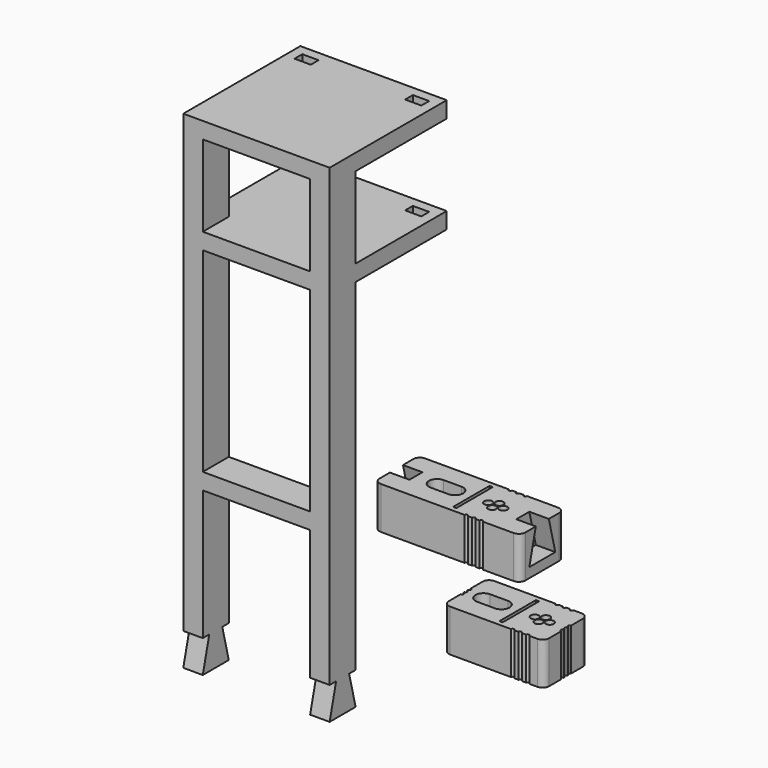
from build123d import *

# Parameters (mm, degrees)
F0_W      = 1
F0_H      = 14
F0_R      = 1.25
F1_DEPTH  = 13
F2_R      = 1.25
F2_W      = 1
F2_H      = 14
F3_DEPTH  = 13
F5_DEPTH  = 6
F7_DEPTH  = 6
F8_W      = 45
F8_H      = 10
F9_DEPTH  = 150
F11_DEPTH = 74.5548050561
F12_W     = 33
F12_H     = 50
F12_H_2   = 60
F12_H_3   = 25
F13_DEPTH = 101.7980283996
F14_W     = 45
F14_H     = 5
F15_DEPTH = 35
F16_W     = 5
F16_H     = 3
F17_DEPTH = 35


with BuildPart() as f1:
    # F0 (on Top) → F1 (new body)
    with BuildSketch(Plane.XY):
        with BuildLine():
            Line((19.8539771741, 9.7557189554), (1.1039771741, 9.7557189554))
            ThreePointArc((1.1039771741, 9.7557189554), (-0.3102363882, 9.1699325178), (-0.8960228259, 7.7557189554))
            Line((-0.8960228259, 7.7557189554), (-0.8960228259, 3.1557189554))
            ThreePointArc((-0.8960228259, 3.1557189554), (-0.3960228259, 2.6557189554), (-0.8960228259, 2.1557189554))
            Line((-0.8960228259, 2.1557189554), (-0.8960228259, 1.7557189554))
            ThreePointArc((-0.8960228259, 1.7557189554), (-0.3960228259, 1.2557189554), (-0.8960228259, 0.7557189554))
            Line((-0.8960228259, 0.7557189554), (-0.8960228259, 0.3557189554))
            ThreePointArc((-0.8960228259, 0.3557189554), (-0.3960228259, -0.1442810446), (-0.8960228259, -0.6442810446))
            Line((-0.8960228259, -0.6442810446), (-0.8960228259, -5.2442810446))
            ThreePointArc((-0.8960228259, -5.2442810446), (-0.3102363882, -6.658494607), (1.1039771741, -7.2442810446))
            Line((1.1039771741, -7.2442810446), (19.8539771741, -7.2442810446))
            ThreePointArc((19.8539771741, -7.2442810446), (20.3539771741, -6.7442810446), (20.8539771741, -7.2442810446))
            Line((20.8539771741, -7.2442810446), (22.1539771741, -7.2442810446))
            ThreePointArc((22.1539771741, -7.2442810446), (22.6539771741, -6.7442810446), (23.1539771741, -7.2442810446))
            Line((23.1539771741, -7.2442810446), (24.4539771741, -7.2442810446))
            ThreePointArc((24.4539771741, -7.2442810446), (24.9539771741, -6.7442810446), (25.4539771741, -7.2442810446))
            Line((25.4539771741, -7.2442810446), (27.9539771741, -7.2442810446))
            ThreePointArc((27.9539771741, -7.2442810446), (29.3681907365, -6.658494607), (29.9539771741, -5.2442810446))
            Line((29.9539771741, -5.2442810446), (29.9539771741, -0.6442810446))
            ThreePointArc((29.9539771741, -0.6442810446), (29.4539771741, -0.1442810446), (29.9539771741, 0.3557189554))
            Line((29.9539771741, 0.3557189554), (29.9539771741, 0.7557189554))
            ThreePointArc((29.9539771741, 0.7557189554), (29.4539771741, 1.2557189554), (29.9539771741, 1.7557189554))
            Line((29.9539771741, 1.7557189554), (29.9539771741, 2.1557189554))
            ThreePointArc((29.9539771741, 2.1557189554), (29.4539771741, 2.6557189554), (29.9539771741, 3.1557189554))
            Line((29.9539771741, 3.1557189554), (29.9539771741, 7.7557189554))
            ThreePointArc((29.9539771741, 7.7557189554), (29.3681907365, 9.1699325178), (27.9539771741, 9.7557189554))
            Line((27.9539771741, 9.7557189554), (25.4539771741, 9.7557189554))
            ThreePointArc((25.4539771741, 9.7557189554), (24.9539771741, 9.2557189554), (24.4539771741, 9.7557189554))
            Line((24.4539771741, 9.7557189554), (23.1539771741, 9.7557189554))
            ThreePointArc((23.1539771741, 9.7557189554), (22.6539771741, 9.2557189554), (22.1539771741, 9.7557189554))
            Line((22.1539771741, 9.7557189554), (20.8539771741, 9.7557189554))
            ThreePointArc((20.8539771741, 9.7557189554), (20.3539771741, 9.2557189554), (19.8539771741, 9.7557189554))
        make_face()
        with Locations((15.6039771741, 1.2557189554)):
            Rectangle(F0_W, F0_H, mode=Mode.SUBTRACT)
        with Locations((20.3539771741, 1.2557189554)):
            Circle(F0_R, mode=Mode.SUBTRACT)
        with Locations((22.6539771741, -0.1442810446)):
            Circle(F0_R, mode=Mode.SUBTRACT)
        with Locations((24.9539771741, 1.2557189554)):
            Circle(F0_R, mode=Mode.SUBTRACT)
        with BuildLine():
            ThreePointArc((10.1039771741, 3.7557189554), (12.6039771741, 1.2557189554), (10.1039771741, -1.2442810446))
            Line((10.1039771741, -1.2442810446), (4.6039771741, -1.2442810446))
            ThreePointArc((4.6039771741, -1.2442810446), (2.1039771741, 1.2557189554), (4.6039771741, 3.7557189554))
            Line((4.6039771741, 3.7557189554), (10.1039771741, 3.7557189554))
        make_face(mode=Mode.SUBTRACT)
        with Locations((22.6539771741, 2.6557189554)):
            Circle(F0_R, mode=Mode.SUBTRACT)
    extrude(amount=F1_DEPTH)


with BuildPart() as f3:
    # F2 (on Top) → F3 (new body)
    with BuildSketch(Plane.XY):
        with BuildLine():
            ThreePointArc((-53.695358336, 34.1463327818), (-53.1095718983, 32.7321192194), (-51.695358336, 32.1463327818))
            Line((-51.695358336, 32.1463327818), (-25.945358336, 32.1463327818))
            ThreePointArc((-25.945358336, 32.1463327818), (-25.445358336, 32.6463327818), (-24.945358336, 32.1463327818))
            Line((-24.945358336, 32.1463327818), (-23.645358336, 32.1463327818))
            ThreePointArc((-23.645358336, 32.1463327818), (-23.145358336, 32.6463327818), (-22.645358336, 32.1463327818))
            Line((-22.645358336, 32.1463327818), (-21.345358336, 32.1463327818))
            ThreePointArc((-21.345358336, 32.1463327818), (-20.845358336, 32.6463327818), (-20.345358336, 32.1463327818))
            Line((-20.345358336, 32.1463327818), (-10.845358336, 32.1463327818))
            ThreePointArc((-10.845358336, 32.1463327818), (-9.4311447736, 32.7321192194), (-8.845358336, 34.1463327818))
            Line((-8.845358336, 34.1463327818), (-8.845358336, 47.1463327818))
            ThreePointArc((-8.845358336, 47.1463327818), (-9.4311447736, 48.5605463441), (-10.845358336, 49.1463327818))
            Line((-10.845358336, 49.1463327818), (-20.345358336, 49.1463327818))
            ThreePointArc((-20.345358336, 49.1463327818), (-20.845358336, 48.6463327818), (-21.345358336, 49.1463327818))
            Line((-21.345358336, 49.1463327818), (-22.645358336, 49.1463327818))
            ThreePointArc((-22.645358336, 49.1463327818), (-23.145358336, 48.6463327818), (-23.645358336, 49.1463327818))
            Line((-23.645358336, 49.1463327818), (-24.945358336, 49.1463327818))
            ThreePointArc((-24.945358336, 49.1463327818), (-25.445358336, 48.6463327818), (-25.945358336, 49.1463327818))
            Line((-25.945358336, 49.1463327818), (-51.695358336, 49.1463327818))
            ThreePointArc((-51.695358336, 49.1463327818), (-53.1095718983, 48.5605463441), (-53.695358336, 47.1463327818))
            Line((-53.695358336, 47.1463327818), (-53.695358336, 34.1463327818))
        make_face()
        with Locations((-23.145358336, 39.2463327818)):
            Circle(F2_R, mode=Mode.SUBTRACT)
        with Locations((-25.445358336, 40.6463327818)):
            Circle(F2_R, mode=Mode.SUBTRACT)
        with Locations((-20.845358336, 40.6463327818)):
            Circle(F2_R, mode=Mode.SUBTRACT)
        with BuildLine():
            ThreePointArc((-41.195358336, 38.1463327818), (-43.695358336, 40.6463327818), (-41.195358336, 43.1463327818))
            Line((-41.195358336, 43.1463327818), (-35.695358336, 43.1463327818))
            ThreePointArc((-35.695358336, 43.1463327818), (-33.195358336, 40.6463327818), (-35.695358336, 38.1463327818))
            Line((-35.695358336, 38.1463327818), (-41.195358336, 38.1463327818))
        make_face(mode=Mode.SUBTRACT)
        with Locations((-30.195358336, 40.6463327818)):
            Rectangle(F2_W, F2_H, mode=Mode.SUBTRACT)
        with Locations((-23.145358336, 42.0463327818)):
            Circle(F2_R, mode=Mode.SUBTRACT)
    extrude(amount=F3_DEPTH)

    # F4 (on face) → F5 (cut)
    with BuildSketch(Plane.YZ.offset(-8.845358336)):
        Polygon((43.1463327818, 13), (38.1463327818, 13), (35.6530527533, 3), (45.6396128102, 3), align=None)
    extrude(amount=-F5_DEPTH, mode=Mode.SUBTRACT)

    # F6 (on face) → F7 (cut)
    with BuildSketch(Plane(origin=(-53.695358336, 0, 0), x_dir=(0, -1, 0), z_dir=(-1, 0, 0))):
        Polygon((-38.1463327818, 13), (-43.1463327818, 13), (-45.6396128102, 3), (-35.6530527533, 3), align=None)
    extrude(amount=-F7_DEPTH, mode=Mode.SUBTRACT)


with BuildPart() as f9:
    # F8 (on Top) → F9 (new body)
    with BuildSketch(Plane.XY):
        with Locations((-22.0998278819, -47.6506956178)):
            Rectangle(F8_W, F8_H)
    extrude(amount=F9_DEPTH)

    # F10 (on face) → F11 (cut, through all)
    with BuildSketch(Plane(origin=(-44.5998278819, 0, 0), x_dir=(0, -1, 0), z_dir=(-1, 0, 0))):
        Polygon((42.6506956178, 0), (42.6574155894, 0), (45.1506956178, 10), (42.6506956178, 10), align=None)
        Polygon((50.1506956178, 10), (52.6439756462, 0), (52.6506956178, 0), (52.6506956178, 10), align=None)
    extrude(amount=-F11_DEPTH, mode=Mode.SUBTRACT)

    # F12 (on face) → F13 (cut, through all)
    with BuildSketch(Plane.XZ.offset(52.6506956178)):
        with Locations((-22.0998278819, 25)):
            Rectangle(F12_W, F12_H)
        with Locations((-22.0998278819, 85)):
            Rectangle(F12_W, F12_H_2)
        with Locations((-22.0998278819, 132.5)):
            Rectangle(F12_W, F12_H_3)
    extrude(amount=-F13_DEPTH, mode=Mode.SUBTRACT)

    # F14 (on face) → F15 (join)
    with BuildSketch(Plane(origin=(0, -42.6506956178, 0), x_dir=(-1, 0, 0), z_dir=(0, 1, 0))):
        with Locations((22.0998278819, 147.5)):
            Rectangle(F14_W, F14_H)
        with Locations((22.0998278819, 117.5)):
            Rectangle(F14_W, F14_H)
    extrude(amount=F15_DEPTH)

    # F16 (on face) → F17 (cut, through all)
    with BuildSketch(Plane.XY.offset(150)):
        with Locations((-39.0998278819, -12.1506956178)):
            Rectangle(F16_W, F16_H)
        with Locations((-5.0998278819, -12.1506956178)):
            Rectangle(F16_W, F16_H)
    extrude(amount=-F17_DEPTH, mode=Mode.SUBTRACT)


solid = Compound([f1.part, f3.part, f9.part])
